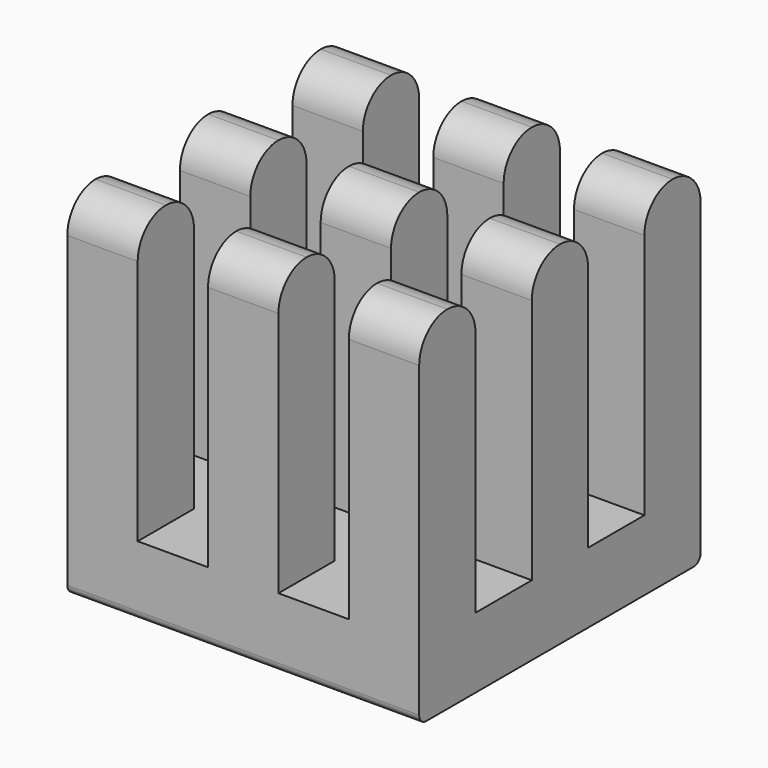
from build123d import *

# Parameters (mm, degrees)
BOX_W                  = 10
BOX_H                  = 10
BOX_DEPTH              = 10
SKETCH_W               = 2
SKETCH_H               = 10
POCKET_DEPTH           = 10.001
LINEARPATTERN_COUNT    = 2
LINEARPATTERN_PITCH    = 4
SKETCH001_W            = 2
SKETCH001_H            = 10
POCKET001_DEPTH        = 10.001
LINEARPATTERN001_COUNT = 2
LINEARPATTERN001_PITCH = 4
FILLET_R               = 0.999
FILLET001_R            = 0.25


with BuildPart() as part:
    # Box → Box (new body)
    with BuildSketch(Plane(origin=(-5, -5, 0), x_dir=(1, 0, 0), z_dir=(0, 0, 1))):
        with Locations((5, 5)):
            Rectangle(BOX_W, BOX_H)
    extrude(amount=BOX_DEPTH)

    # Sketch → Pocket (cut, through all)
    with BuildSketch(Plane(origin=(-5, -5, 0), x_dir=(1, 0, 0), z_dir=(0, -1, 0))):
        with Locations((3, 7)):
            Rectangle(SKETCH_W, SKETCH_H)
    pocket = extrude(amount=-POCKET_DEPTH, mode=Mode.SUBTRACT)

    # LinearPattern: Pocket ×2
    with Locations(*[(i * LINEARPATTERN_PITCH, 0, 0) for i in range(1, LINEARPATTERN_COUNT)]):
        add(pocket, mode=Mode.SUBTRACT)

    # Sketch001 → Pocket001 (cut, through all)
    with BuildSketch(Plane(origin=(5, -5, 0), x_dir=(0, 1, 0), z_dir=(1, 0, 0))):
        with Locations((3, 7)):
            Rectangle(SKETCH001_W, SKETCH001_H)
    pocket001 = extrude(amount=-POCKET001_DEPTH, mode=Mode.SUBTRACT)

    # LinearPattern001: Pocket001 ×2
    with Locations(*[(0, i * LINEARPATTERN001_PITCH, 0) for i in range(1, LINEARPATTERN001_COUNT)]):
        add(pocket001, mode=Mode.SUBTRACT)

    # Fillet
    fillet_edges = [part.edges().sort_by_distance(p)[0] for p in [
        (-4, -5, 10),
        (-4, -3, 10),
        (0, -5, 10),
        (0, -3, 10),
        (4, -5, 10),
        (4, -3, 10),
        (4, -1, 10),
        (4, 1, 10),
        (0, 1, 10),
        (0, -1, 10),
        (-4, -1, 10),
        (-4, 1, 10),
        (-4, 3, 10),
        (-4, 5, 10),
        (0, 5, 10),
        (0, 3, 10),
        (4, 5, 10),
        (4, 3, 10),
    ]]
    fillet(fillet_edges, radius=FILLET_R)

    # Fillet001
    fillet001_edges = [part.edges().sort_by_distance(p)[0] for p in [
        (0, -5, 0),
        (0, 5, 0),
    ]]
    fillet(fillet001_edges, radius=FILLET001_R)


solid = part.part
